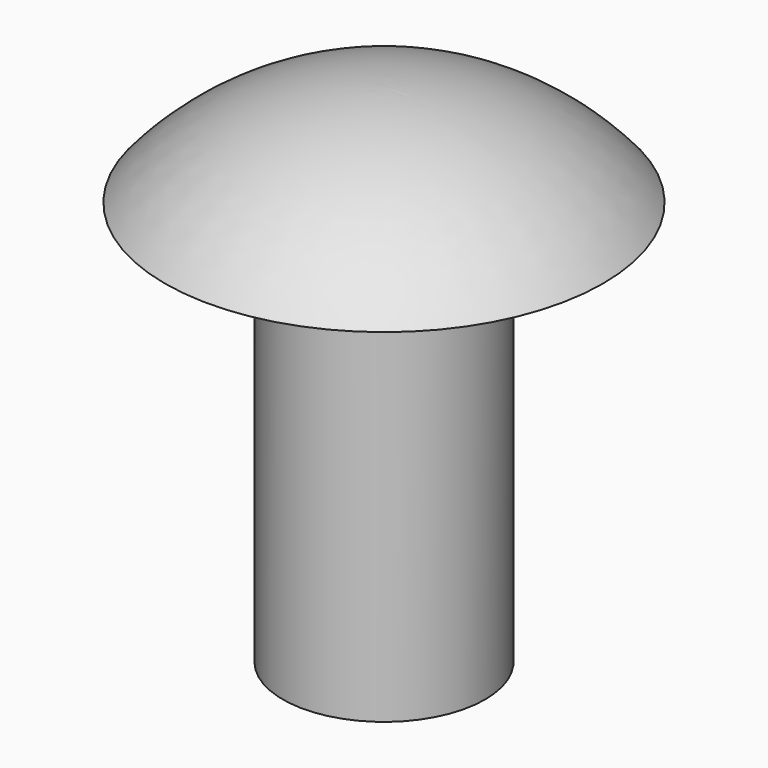
from build123d import *


with BuildPart() as part:
    # Sketch → Revolution (revolve)
    with BuildSketch(Plane.XZ):
        with BuildLine():
            Line((0, 15), (0, 0))
            Line((0, 0), (3, 0))
            Line((3, 0), (3, 12))
            Line((3, 12), (6.5, 12))
            ThreePointArc((6.5, 12), (3.579455, 14.21382), (0, 15))
        make_face()
    revolve(axis=Axis((0, 0, 0), (0, 0, 1)))


solid = part.part
